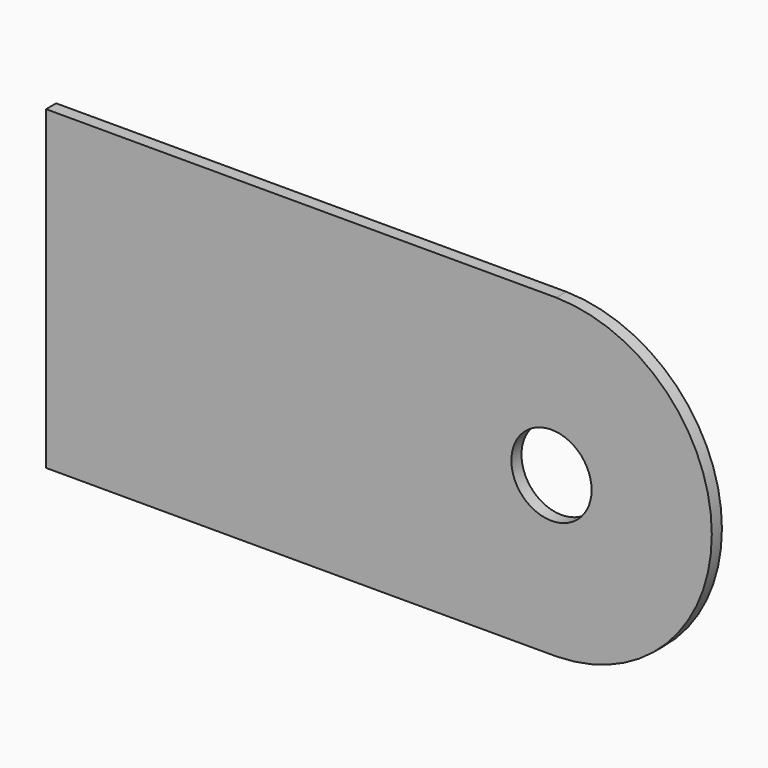
from build123d import *

# Parameters (mm, degrees)
F0_R     = 3.175
F1_DEPTH = 1


with BuildPart() as f1:
    # F0 (on Front) → F1 (new body)
    with BuildSketch(Plane.XZ):
        with BuildLine():
            Line((0, 25), (0, 0))
            Line((0, 0), (40, 0))
            Line((40, 0), (40.377485, 0))
            ThreePointArc((40.377485, 0), (52.690167, 12.5), (40.377485, 25))
            Line((40.377485, 25), (40, 25))
            Line((40, 25), (0, 25))
        make_face()
        with Locations((40, 12.5)):
            Circle(F0_R, mode=Mode.SUBTRACT)
    extrude(amount=F1_DEPTH)


solid = f1.part
